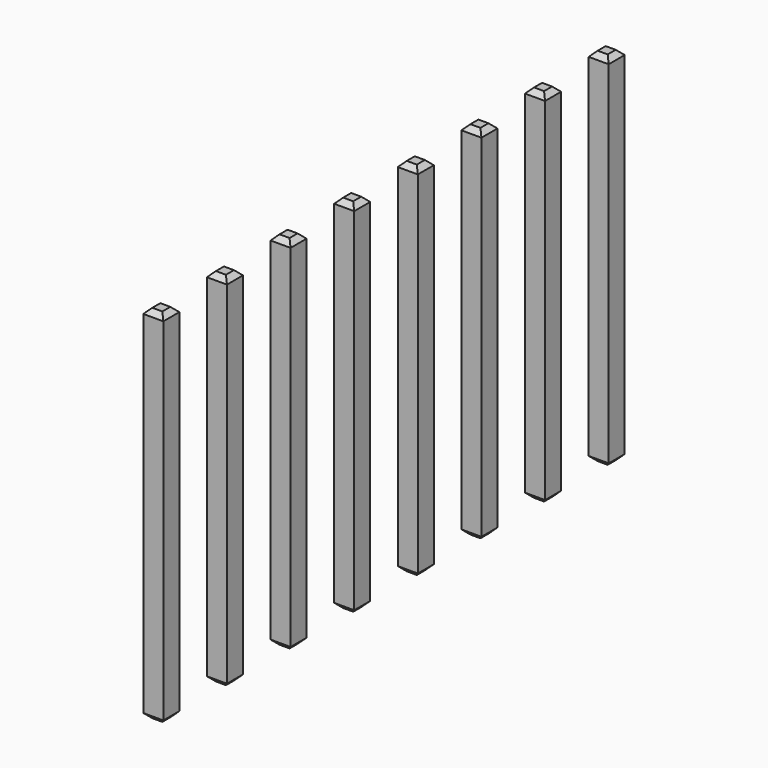
from build123d import *

# Parameters (mm, degrees)
SKETCH207_W       = 0.64
SKETCH207_H       = 11.54
PAD062_DEPTH      = 0.32
PAD062_DEPTH_BACK = 0.32
CHAMFER012_SIZE   = 0.16
ARRAY002_Y_COUNT  = 8
ARRAY002_Y_PITCH  = 2.54


with BuildPart() as part:
    # Sketch207 → Pad062 (new body, two sides)
    with BuildSketch(Plane.XZ) as pad062_sk:
        with Locations((0, 2.77)):
            Rectangle(SKETCH207_W, SKETCH207_H)
    extrude(amount=PAD062_DEPTH)
    extrude(pad062_sk.sketch, amount=-PAD062_DEPTH_BACK)

    # Chamfer012
    chamfer012_edges = [part.edges().sort_by_distance(p)[0] for p in [
        (0.32, 0, 8.54),
        (-0.32, 0, 8.54),
        (0, 0.32, 8.54),
        (0, -0.32, 8.54),
        (-0.32, 0, -3),
        (0.32, 0, -3),
        (0, 0.32, -3),
        (0, -0.32, -3),
    ]]
    chamfer(chamfer012_edges, length=CHAMFER012_SIZE)

    # Array002 Y: part ×8


with BuildPart() as part_1:
    add(part.part)
    with Locations(*[(0, i * ARRAY002_Y_PITCH, 0) for i in range(1, ARRAY002_Y_COUNT)]):
        add(part.part)


solid = part_1.part
